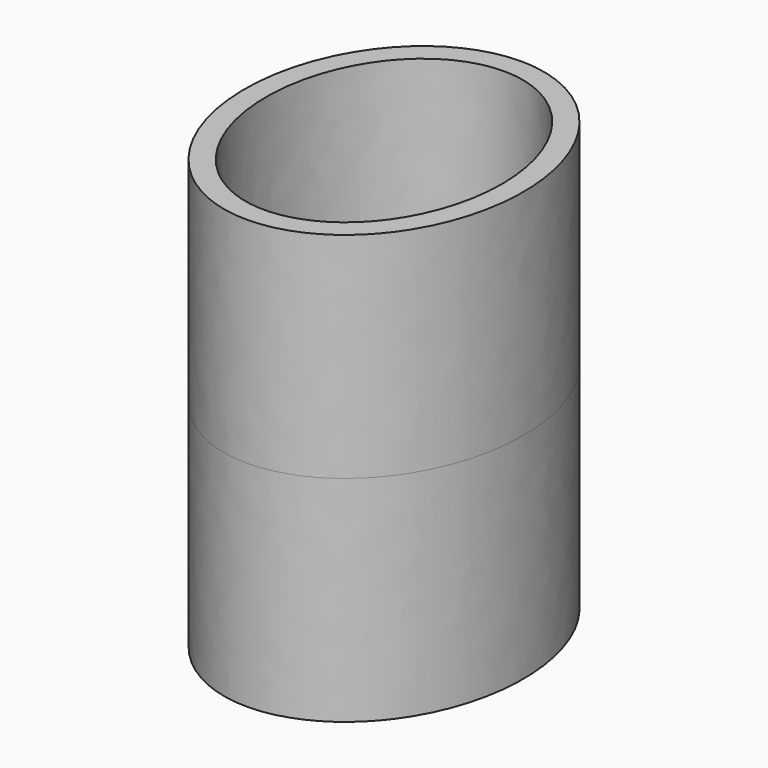
from build123d import *

# Parameters (mm, degrees)
F1_DEPTH      = 63.5
F1_DEPTH_BACK = 63.5


with BuildPart() as f1:
    # F0 (on Top) → F1 (new body, two sides)
    with BuildSketch(Plane.XY) as f1_sk:
        with BuildLine():
            add(Edge.make_bspline(
                [(0, 50.8), (-71.490397, 50.8), (-35.745199, -25.4), (0, -101.6), (35.745199, -25.4), (71.490397, 50.8), (0, 50.8)],
                knots=[0, 0, 0, 2.094395, 2.094395, 4.18879, 4.18879, 6.283185, 6.283185, 6.283185], degree=2, weights=[1, 0.5, 1, 0.5, 1, 0.5, 1]))
        make_face()
        with BuildLine():
            add(Edge.make_bspline(
                [(0, 44.45), (-60.491874, 44.45), (-30.245937, -22.225), (0, -88.9), (30.245937, -22.225), (60.491874, 44.45), (0, 44.45)],
                knots=[0, 0, 0, 2.094395, 2.094395, 4.18879, 4.18879, 6.283185, 6.283185, 6.283185], degree=2, weights=[1, 0.5, 1, 0.5, 1, 0.5, 1]))
        make_face(mode=Mode.SUBTRACT)
    extrude(amount=F1_DEPTH)
    extrude(f1_sk.sketch, amount=-F1_DEPTH_BACK)


solid = f1.part
